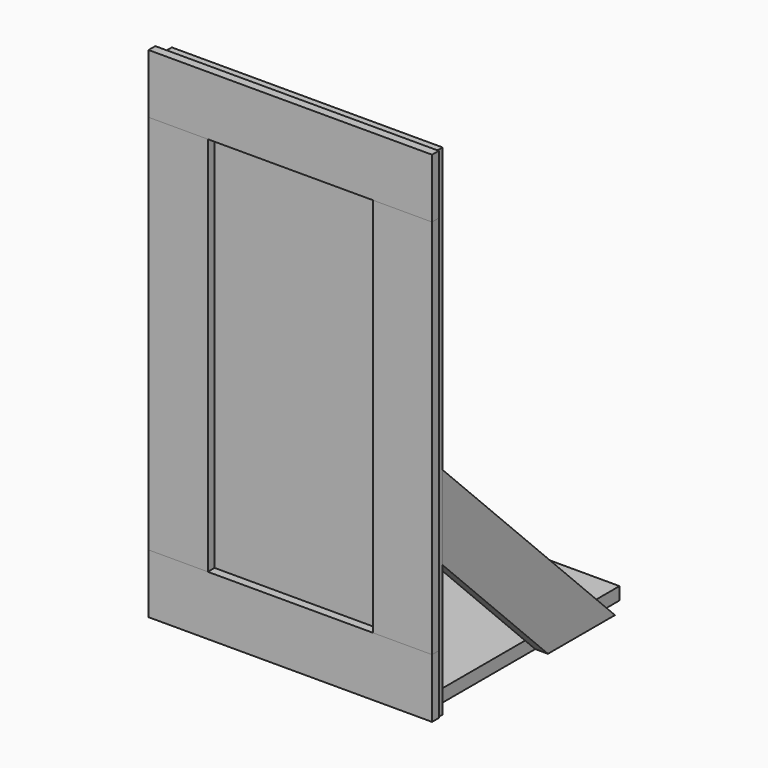
from build123d import *

# Parameters (mm, degrees)
F0_W     = 406.4
F0_H     = 749.3
F1_DEPTH = 19.05
F2_W     = 368.3
F2_H     = 355.6
F3_DEPTH = 19.05
F5_DEPTH = 19.05
F8_DEPTH = 12.7
F7_W     = 9.525
F7_H     = 88.9
F7_W_2   = 79.375
F7_H_2   = 571.5
F9_DEPTH = 12.7


with BuildPart() as f1:
    # F0 (on Front) → F1 (new body)
    with BuildSketch(Plane.XZ):
        Rectangle(F0_W, F0_H)
    extrude(amount=F1_DEPTH)


with BuildPart() as f3:
    # F2 (on face) → F3 (new body)
    with BuildSketch(Plane(origin=(0, 0, -374.65), x_dir=(1, 0, 0), z_dir=(0, 0, -1))):
        with Locations((0, -177.8)):
            Rectangle(F2_W, F2_H)
    extrude(amount=-F3_DEPTH)


with BuildPart() as f5:
    # F4 (on face) → F5 (new body)
    with BuildSketch(Plane(origin=(-184.15, 0, 0), x_dir=(0, -1, 0), z_dir=(-1, 0, 0))):
        Polygon((0, -51.3607796415), (-323.2892203585, -374.65), (-197.5656346635, -374.65), (0, -177.0843653365), align=None)
    extrude(amount=F5_DEPTH)


with BuildPart() as f6_1:
    # F6: instance of F5
    add(f5.part.mirror(Plane.YZ))


with BuildPart() as f8:
    # F7 (on face) → F8 (new body)
    with BuildSketch(Plane.XZ.offset(19.05)):
        Polygon((-203.2, 374.65), (-203.2, 292.1), (-123.825, 292.1), (123.825, 292.1), (203.2, 292.1), (203.2, 374.65), align=None)
        Polygon((212.725, 381), (-212.725, 381), (-212.725, 292.1), (-203.2, 292.1), (-203.2, 374.65), (203.2, 374.65), (203.2, 292.1), (212.725, 292.1), align=None)
    extrude(amount=F8_DEPTH)


with BuildPart() as f8b:
    # F7 (on face) → F8, piece 2 (new body)
    with BuildSketch(Plane.XZ.offset(19.05)):
        Polygon((-123.825, -279.4), (-203.2, -279.4), (-203.2, -368.3), (203.2, -368.3), (203.2, -279.4), (123.825, -279.4), align=None)
        with Locations((-207.9625, -323.85)):
            Rectangle(F7_W, F7_H)
        with Locations((207.9625, -323.85)):
            Rectangle(F7_W, F7_H)
    extrude(amount=F8_DEPTH)


with BuildPart() as f9:
    # F7 (on face) → F9 (new body)
    with BuildSketch(Plane.XZ.offset(19.05)):
        with Locations((-163.5125, 6.35)):
            Rectangle(F7_W_2, F7_H_2)
        with Locations((-207.9625, 6.35)):
            Rectangle(F7_W, F7_H_2)
    extrude(amount=F9_DEPTH)


with BuildPart() as f9b:
    # F7 (on face) → F9, piece 2 (new body)
    with BuildSketch(Plane.XZ.offset(19.05)):
        with Locations((163.5125, 6.35)):
            Rectangle(F7_W_2, F7_H_2)
        with Locations((207.9625, 6.35)):
            Rectangle(F7_W, F7_H_2)
    extrude(amount=F9_DEPTH)


solid = Compound([f1.part, f3.part, f5.part, f6_1.part, f8.part, f8b.part, f9.part, f9b.part])
